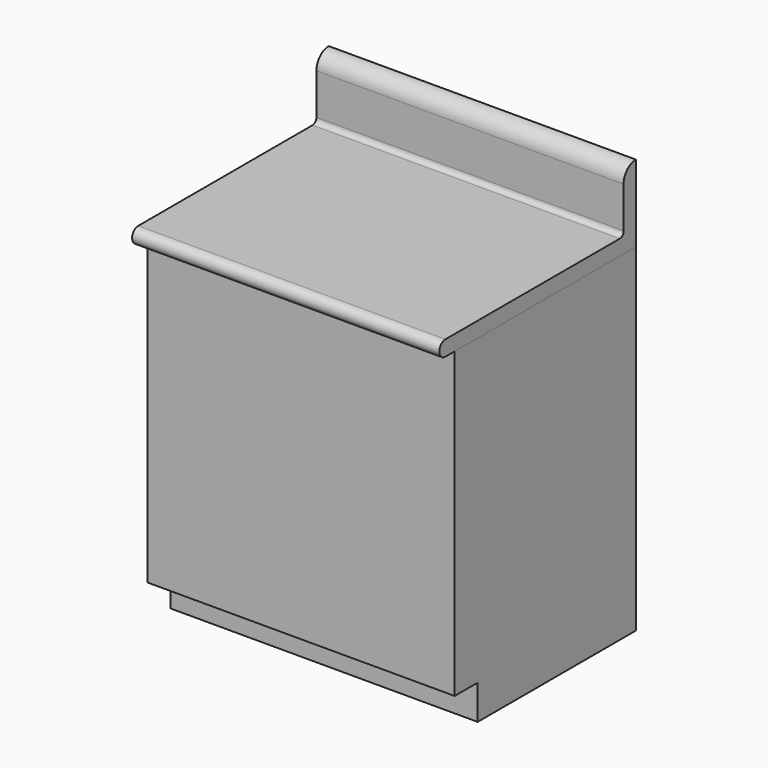
from build123d import *

# Parameters (mm, degrees)
F0_W     = 800
F0_H     = 590
F1_DEPTH = 880
F2_W     = 75
F2_H     = 90
F3_DEPTH = 800.001
F5_DEPTH = 800


with BuildPart() as f1:
    # F0 (on Top) → F1 (new body)
    with BuildSketch(Plane.XY):
        with Locations((400, 295)):
            Rectangle(F0_W, F0_H)
    extrude(amount=F1_DEPTH)

    # F2 (on Right) → F3 (cut, through all)
    with BuildSketch(Plane.YZ):
        with Locations((37.5, 45)):
            Rectangle(F2_W, F2_H)
    extrude(amount=F3_DEPTH, mode=Mode.SUBTRACT)


with BuildPart() as f5:
    # F4 (on Right) → F5 (new body, through all)
    with BuildSketch(Plane.YZ):
        with BuildLine():
            Line((-30, 880), (590, 880))
            Line((590, 880), (590, 1080))
            ThreePointArc((590, 1080), (561.715729, 1068.284271), (550, 1040))
            Line((550, 1040), (550, 932.7))
            ThreePointArc((550, 932.7), (546.280256, 923.719744), (537.3, 920))
            Line((537.3, 920), (-30, 920))
            ThreePointArc((-30, 920), (-50, 900), (-30, 880))
        make_face()
    extrude(amount=F5_DEPTH)


solid = Compound([f1.part, f5.part])
